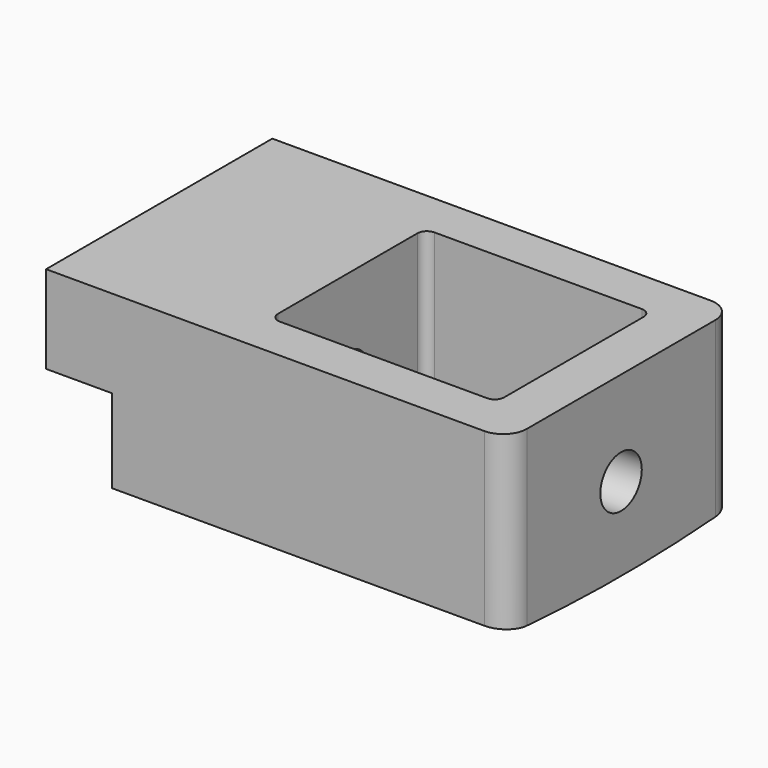
from build123d import *

# Parameters (mm, degrees)
PAD039_DEPTH    = 10
SKETCH109_R     = 200
SKETCH109_R_2   = 164.5
POCKET046_DEPTH = 7
SKETCH110_R     = 200
SKETCH110_R_2   = 173.831445
POCKET047_DEPTH = 49.001
SKETCH107_R     = 2.75
POCKET048_DEPTH = 32


with BuildPart() as part:
    # Sketch108 → Pad039 (new body, symmetric)
    with BuildSketch(Plane.XY):
        with BuildLine():
            Line((-32, 15), (14.5, 15))
            ThreePointArc((17, 12.5), (16.267767, 14.267767), (14.5, 15))
            Line((17, 12.5), (17, -12.5))
            ThreePointArc((14.5, -15), (16.267767, -14.267767), (17, -12.5))
            Line((14.5, -15), (-32, -15))
            Line((-32, -15), (-32, 15))
        make_face()
        with BuildLine():
            Line((-11, 10.25), (11, 10.25))
            ThreePointArc((12, 9.25), (11.707107, 9.957107), (11, 10.25))
            Line((12, 9.25), (12, -9.25))
            ThreePointArc((11, -10.25), (11.707107, -9.957107), (12, -9.25))
            Line((11, -10.25), (-11, -10.25))
            ThreePointArc((-12, -9.25), (-11.707107, -9.957107), (-11, -10.25))
            Line((-12, -9.25), (-12, 9.25))
            ThreePointArc((-11, 10.25), (-11.707107, 9.957107), (-12, 9.25))
        make_face(mode=Mode.SUBTRACT)
    extrude(amount=PAD039_DEPTH, both=True)

    # Sketch109 (on DatumPlane) → Pocket046 (cut)
    with BuildSketch(Plane(origin=(-32, 0, 0), x_dir=(0, -1, 0), z_dir=(-1, 0, 0))):
        with Locations((0, 164.5)):
            Circle(SKETCH109_R)
        with Locations((0, 164.5)):
            Circle(SKETCH109_R_2, mode=Mode.SUBTRACT)
    extrude(amount=-POCKET046_DEPTH, mode=Mode.SUBTRACT)

    # Sketch110 (on DatumPlane) → Pocket047 (cut, through all)
    with BuildSketch(Plane(origin=(-32, 0, 0), x_dir=(0, -1, 0), z_dir=(-1, 0, 0))):
        with Locations((0, 165)):
            Circle(SKETCH110_R)
        with Locations((0, 165)):
            Circle(SKETCH110_R_2, mode=Mode.SUBTRACT)
    extrude(amount=-POCKET047_DEPTH, mode=Mode.SUBTRACT)

    # Sketch107 → Pocket048 (cut)
    with BuildSketch(Plane.YZ.offset(18)):
        Circle(SKETCH107_R)
    extrude(amount=-POCKET048_DEPTH, mode=Mode.SUBTRACT)


with BuildPart() as part_1:
    # Body022022 placement: moved
    add(part.part.moved(Location((157, 0, -82))))


solid = part_1.part
